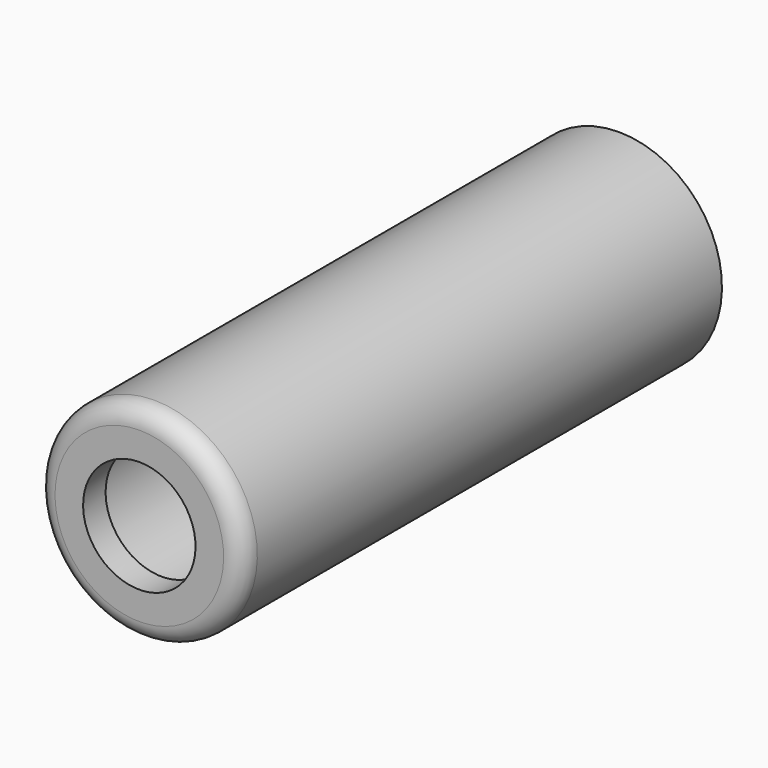
from build123d import *


with BuildPart() as f1:
    # F0 (on Right) → F1 (revolve)
    with BuildSketch(Plane.YZ):
        with BuildLine():
            Line((4.7625, 9.525), (4.7625, 12.7))
            Line((4.7625, 12.7), (101.6, 12.7))
            Line((101.6, 12.7), (101.6, 17.4625))
            Line((101.6, 17.4625), (3.175, 17.4625))
            ThreePointArc((3.175, 17.4625), (0.929936, 16.532564), (0, 14.2875))
            Line((0, 14.2875), (0, 12.7))
            Line((0, 12.7), (0, 9.525))
            Line((0, 9.525), (4.7625, 9.525))
        make_face()
    revolve(axis=Axis((0, 51.01543, 0), (0, 1, 0)))


solid = f1.part
